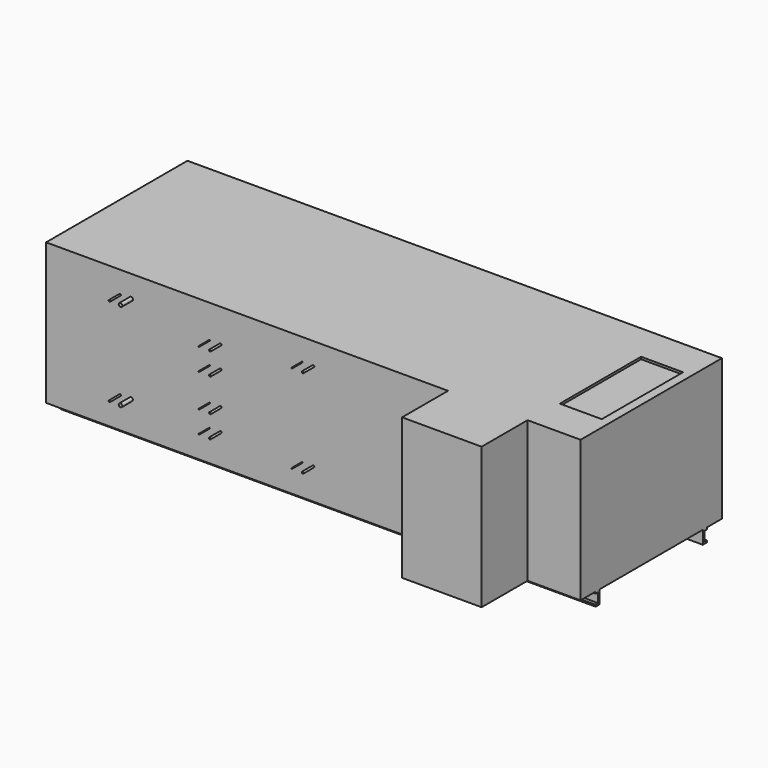
from build123d import *

# Parameters (mm, degrees)
F0_W     = 6146.8
F0_H     = 1625.6
F1_DEPTH = 2032
F2_W     = 914.4
F2_H     = 1625.6
F3_DEPTH = 660.4
F4_W     = 482.6
F4_H     = 1168.4
F5_DEPTH = 25.4
F7_DEPTH = 6146.8
F8_R     = 9.525
F8_R_2   = 20.6375
F8_R_3   = 4.7625
F8_R_4   = 11.1125
F9_DEPTH = 152.4


with BuildPart() as f1:
    # F0 (on Front) → F1 (new body)
    with BuildSketch(Plane.XZ):
        with Locations((3073.4, 812.8)):
            Rectangle(F0_W, F0_H)
    extrude(amount=F1_DEPTH)

    # F2 (on face) → F3 (join)
    with BuildSketch(Plane.XZ.offset(2032)):
        with Locations((5080, 812.8)):
            Rectangle(F2_W, F2_H)
    extrude(amount=F3_DEPTH)

    # F4 (on face) → F5 (cut)
    with BuildSketch(Plane.XY.offset(1625.6)):
        with Locations((5803.9, -1016)):
            Rectangle(F4_W, F4_H)
    extrude(amount=-F5_DEPTH, mode=Mode.SUBTRACT)

    # F6 (on face) → F7 (join, through all)
    with BuildSketch(Plane.YZ.offset(6146.8)):
        Polygon((-1757.68, 0), (-1816.1, 0), (-1816.1, -20.32), (-1778, -20.32), (-1778, -132.08), (-1816.1, -132.08), (-1816.1, -152.4), (-1757.68, -152.4), align=None)
        Polygon((-215.9, -152.4), (-215.9, -132.08), (-254, -132.08), (-254, -20.32), (-215.9, -20.32), (-215.9, 0), (-274.32, 0), (-274.32, -152.4), align=None)
    extrude(amount=-F7_DEPTH)

    # F8 (on face) → F9 (join)
    with BuildSketch(Plane.XZ.offset(2032)):
        with Locations((850.9, 1371.6)):
            Circle(F8_R)
        with Locations((850.9, 355.6)):
            Circle(F8_R)
        with Locations((977.9, 1371.6)):
            Circle(F8_R_2)
        with Locations((977.9, 355.6)):
            Circle(F8_R_2)
        with Locations((2946.4, 1371.6)):
            Circle(F8_R_3)
        with Locations((3073.4, 1371.6)):
            Circle(F8_R_4)
        with Locations((2946.4, 355.6)):
            Circle(F8_R_3)
        with Locations((3073.4, 355.6)):
            Circle(F8_R_4)
        with Locations((1879.6, 1244.6)):
            Circle(F8_R_3)
        with Locations((2006.6, 1244.6)):
            Circle(F8_R_4)
        with Locations((1879.6, 990.6)):
            Circle(F8_R_3)
        with Locations((2006.6, 990.6)):
            Circle(F8_R_4)
        with Locations((1879.6, 609.6)):
            Circle(F8_R_3)
        with Locations((2006.6, 609.6)):
            Circle(F8_R_4)
        with Locations((1879.6, 355.6)):
            Circle(F8_R_3)
        with Locations((2006.6, 355.6)):
            Circle(F8_R_4)
    extrude(amount=F9_DEPTH)


solid = f1.part
